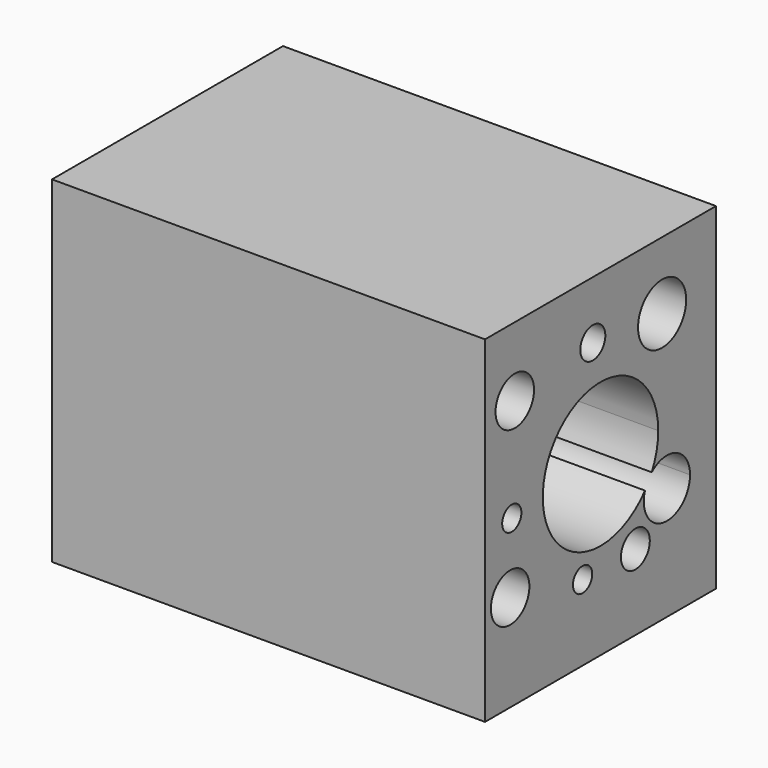
from build123d import *

# Parameters (mm, degrees)
F0_W     = 114.3
F0_H     = 88.9
F1_DEPTH = 76.2
F2_R     = 6.35
F2_R_2   = 7.9375
F2_R_3   = 3.175
F2_R_4   = 4.1275
F2_R_5   = 4.7625
F3_DEPTH = 114.3


with BuildPart() as f1:
    # F0 (on Front) → F1 (new body)
    with BuildSketch(Plane.XZ):
        with Locations((3.3618031452, -5.2332123742)):
            Rectangle(F0_W, F0_H)
    extrude(amount=F1_DEPTH)

    # F2 (on face) → F3 (cut, through all)
    with BuildSketch(Plane.YZ.offset(60.5118031452)):
        with BuildLine():
            ThreePointArc((-21.2015970146, -14.027896936), (-19.5957156735, -9.7602380604), (-19.05, -5.2332123742))
            ThreePointArc((-19.05, -5.2332123742), (-56.0237840544, 1.2197299913), (-23.4217023803, -17.3761147861))
            ThreePointArc((-23.4217023803, -17.3761147861), (-22.5362767831, -15.5530622079), (-21.2015970146, -14.027896936))
        make_face()
        with BuildLine():
            ThreePointArc((-21.2015970146, -14.027896936), (-22.5362767831, -15.5530622079), (-23.4217023803, -17.3761147861))
            ThreePointArc((-23.4217023803, -17.3761147861), (-22.2231411807, -15.7606932709), (-21.2015970146, -14.027896936))
        make_face()
        with BuildLine():
            ThreePointArc((-21.2015970146, -14.027896936), (-22.2231411807, -15.7606932709), (-23.4217023803, -17.3761147861))
            ThreePointArc((-23.4217023803, -17.3761147861), (-17.3948287668, -27.2874849256), (-8.5655332553, -19.7640545666))
            ThreePointArc((-8.5655332553, -19.7640545666), (-13.0357718235, -12.82550984), (-21.2015970146, -14.027896936))
        make_face()
        with Locations((-66.3864538074, 20.9288746119)):
            Circle(F2_R)
        with Locations((-17.78, 21.4367876258)):
            Circle(F2_R_2)
        with Locations((-67.9182708263, -24.1526439786)):
            Circle(F2_R)
        with Locations((-67.3732608557, -5.9233275242)):
            Circle(F2_R_3)
        with Locations((-44.0157242119, -29.6750832349)):
            Circle(F2_R_3)
        with Locations((-40.64, 23.9767876258)):
            Circle(F2_R_4)
        with Locations((-26.6011171043, -29.6750832349)):
            Circle(F2_R_5)
    extrude(amount=-F3_DEPTH, mode=Mode.SUBTRACT)


solid = f1.part
